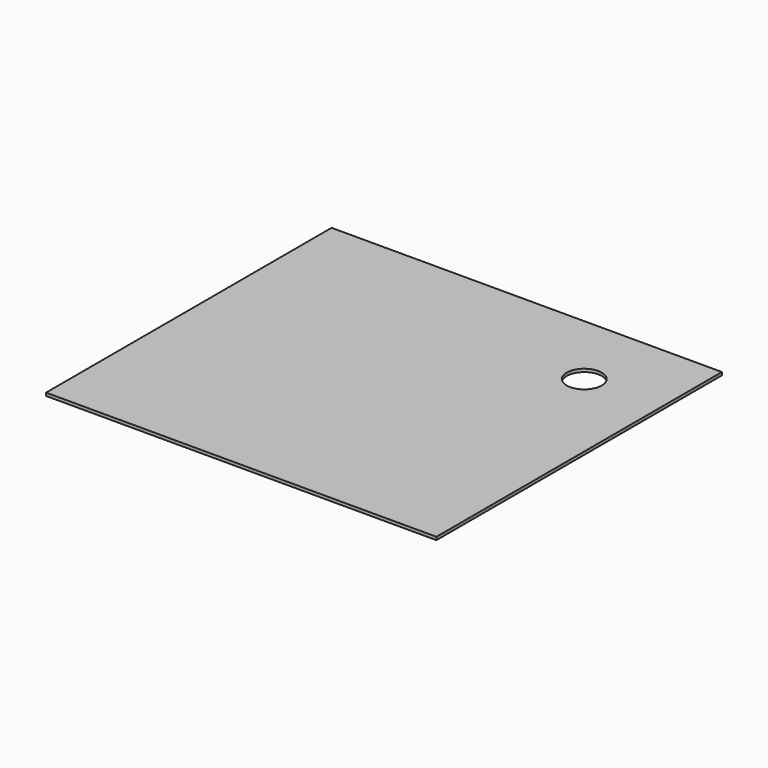
from build123d import *

# Parameters (mm, degrees)
SKETCH_W      = 777.875
SKETCH_H      = 711.2
SKETCH_R      = 34.925
EXTRUDE_DEPTH = 5.9944


with BuildPart() as part:
    # Sketch → Extrude (new body)
    with BuildSketch(Plane.XY):
        with Locations((-150.38392, 77.873823)):
            Rectangle(SKETCH_W, SKETCH_H)
        with Locations((86.15358, 281.073823)):
            Circle(SKETCH_R, mode=Mode.SUBTRACT)
    extrude(amount=EXTRUDE_DEPTH)


solid = part.part
